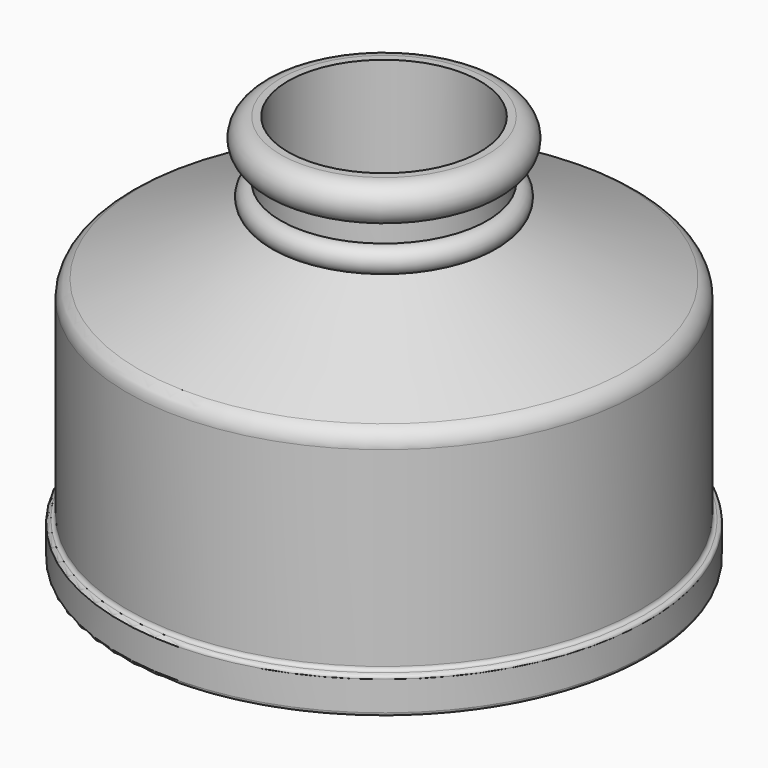
from build123d import *


with BuildPart() as f1:
    # F0 (on Front) → F1 (revolve)
    with BuildSketch(Plane.XZ):
        with BuildLine():
            Line((0, 66.903353), (0, 1.27))
            ThreePointArc((0, 1.27), (-0.371974, 0.371974), (-1.27, 0))
            ThreePointArc((-1.27, 0), (-2.168026, -0.371974), (-2.54, -1.27))
            Line((-2.54, -1.27), (-2.54, -11.43))
            ThreePointArc((-2.54, -11.43), (-2.168026, -12.328026), (-1.27, -12.7))
            Line((-1.27, -12.7), (88.265, -12.7))
            Line((88.265, -12.7), (88.265, 2.54))
            Line((88.265, 2.54), (55.245, 2.54))
            Line((55.245, 2.54), (55.245, 121.92))
            Line((55.245, 121.92), (52.705, 121.92))
            ThreePointArc((52.705, 121.92), (46.194653, 115.409653), (52.705, 108.899306))
            Line((52.705, 108.899306), (52.705, 101.935499))
            ThreePointArc((52.705, 101.935499), (48.218372, 97.620793), (52.705, 93.306087))
            Line((52.705, 93.306087), (3.886356, 72.755955))
            ThreePointArc((3.886356, 72.755955), (1.060074, 70.41607), (0, 66.903353))
        make_face()
    revolve(axis=Axis((88.265, 0, 64.713764), (0, 0, 1)))


solid = f1.part
